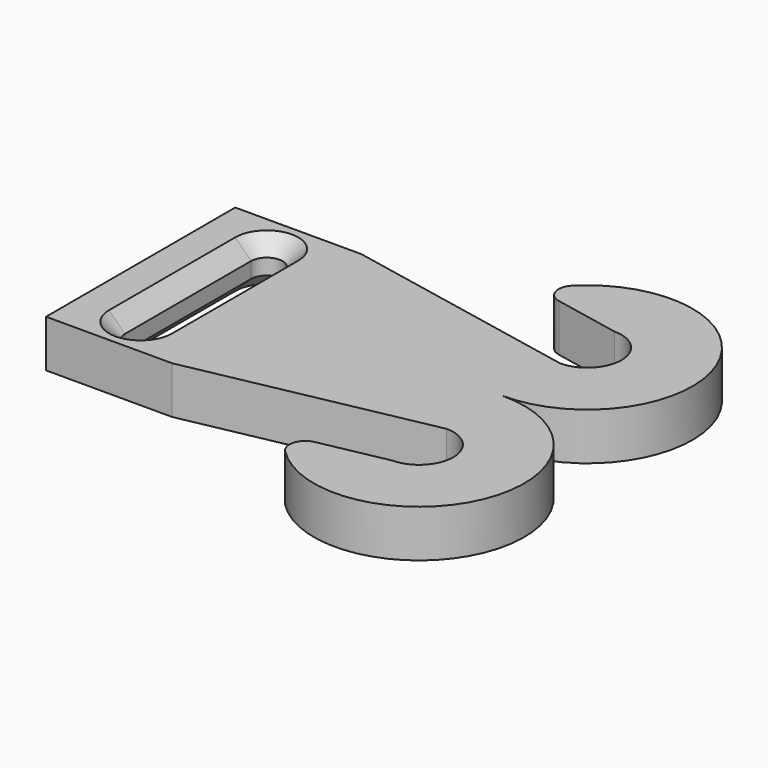
from build123d import *

# Parameters (mm, degrees)
PAD_DEPTH    = 3
POCKET_DEPTH = 5
CHAMFER_SIZE = 1
FILLET_R     = 1


with BuildPart() as part:
    # Sketch → Pad (new body)
    with BuildSketch(Plane.XY):
        with BuildLine():
            Line((0, 15), (0, 0))
            Line((0, 0), (8, 0))
            Line((8, 0), (23, 3))
            ThreePointArc((23, -1.343534), (25.171767, 0.828233), (23, 3))
            Line((23, -1.343534), (17.21767, -2.5))
            ThreePointArc((17.21767, -2.5), (28.775711, -2.511474), (23, 7.5))
            ThreePointArc((23, 7.5), (28.775711, 17.511474), (17.21767, 17.5))
            Line((17.21767, 17.5), (23, 16.343534))
            ThreePointArc((23, 12), (25.171767, 14.171767), (23, 16.343534))
            Line((8, 15), (23, 12))
            Line((0, 15), (8, 15))
        make_face()
    extrude(amount=PAD_DEPTH)

    # Sketch001 (on Face13 of Pad) → Pocket (cut)
    with BuildSketch(Plane.XY.offset(3)):
        with BuildLine():
            ThreePointArc((5, 12.5), (4, 13.5), (3, 12.5))
            Line((3, 12.5), (3, 2.5))
            ThreePointArc((3, 2.5), (4, 1.5), (5, 2.5))
            Line((5, 12.5), (5, 2.5))
        make_face()
    extrude(amount=-POCKET_DEPTH, mode=Mode.SUBTRACT)

    # Chamfer
    chamfer_edges = [part.edges().sort_by_distance(p)[0] for p in [
        (3, 7.5, 0),
        (5, 7.5, 3),
    ]]
    chamfer(chamfer_edges, length=CHAMFER_SIZE)

    # Fillet
    fillet_edges = [part.edges().sort_by_distance(p)[0] for p in [
        (17.21767, -2.5, 1.5),
        (17.21767, 17.5, 1.5),
    ]]
    fillet(fillet_edges, radius=FILLET_R)


solid = part.part
